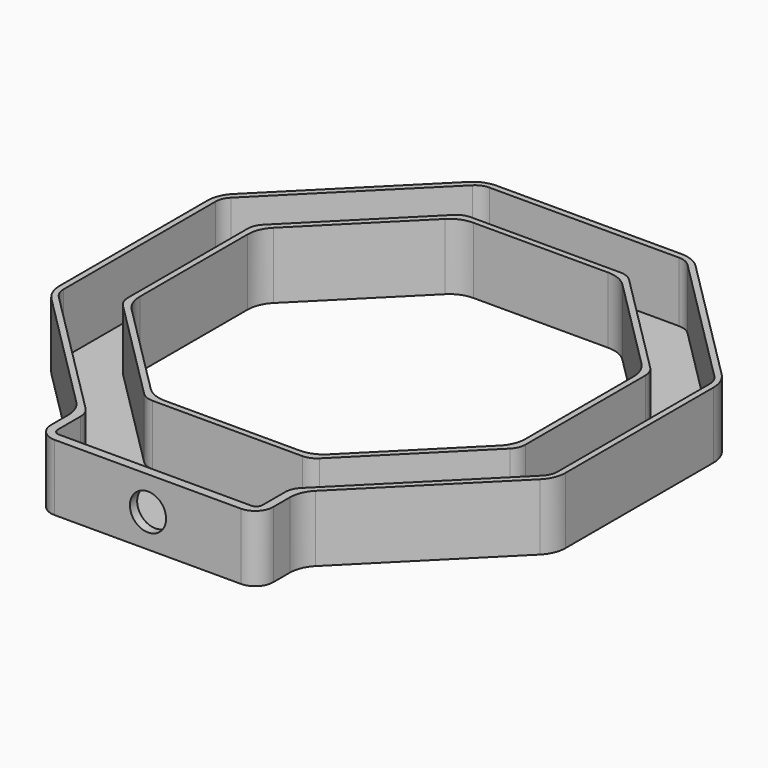
from build123d import *

# Parameters (mm, degrees)
F1_DEPTH = 1
F2_DEPTH = 11
F3_R     = 5
F4_R     = 3
F5_R     = 3
F6_DEPTH = 2
F7_R     = 1


with BuildPart() as f1:
    # F0 (on Top) → F1 (new body)
    with BuildSketch(Plane.XY):
        Polygon((41, -16.9827560573), (41, 16.9827560573), (16.9827560573, 41), (-16.9827560573, 41), (-41, 16.9827560573), (-41, -16.9827560573), (-16.9827560573, -41), (-16.9827560573, -48), (16.9827560573, -48), (16.9827560573, -41), align=None)
        Polygon((-33, -13.6690475583), (-33, 13.6690475583), (-13.6690475583, 33), (13.6690475583, 33), (33, 13.6690475583), (33, -13.6690475583), (13.6690475583, -33), (-13.6690475583, -33), align=None, mode=Mode.SUBTRACT)
    extrude(amount=F1_DEPTH)

    # F0 (on Top) → F2 (join)
    with BuildSketch(Plane.XY):
        Polygon((-17.3969696197, 42), (-42, 17.3969696197), (-42, -17.3969696197), (-18.4827560573, -40.9142135624), (-18.4827560573, -49.5), (18.3969696197, -49.5), (18.3969696197, -41), (42, -17.3969696197), (42, 17.3969696197), (17.3969696197, 42), align=None)
        Polygon((16.9827560573, 41), (41, 16.9827560573), (41, -16.9827560573), (16.9827560573, -41), (16.9827560573, -48), (-16.9827560573, -48), (-16.9827560573, -41), (-41, -16.9827560573), (-41, 16.9827560573), (-16.9827560573, 41), align=None, mode=Mode.SUBTRACT)
        Polygon((-13.6690475583, 33), (-33, 13.6690475583), (-33, -13.6690475583), (-13.6690475583, -33), (13.6690475583, -33), (33, -13.6690475583), (33, 13.6690475583), (13.6690475583, 33), align=None)
        Polygon((-32, 13.2548339959), (-13.2548339959, 32), (13.2548339959, 32), (32, 13.2548339959), (32, -13.2548339959), (13.2548339959, -32), (-13.2548339959, -32), (-32, -13.2548339959), align=None, mode=Mode.SUBTRACT)
    extrude(amount=F2_DEPTH)

    # F3
    f3_edges = [f1.edges().sort_by_distance(p)[0] for p in [
        (-42, 17.39697, 5.5),
        (-42, -17.39697, 5.5),
        (-17.39697, 42, 5.5),
        (17.39697, 42, 5.5),
        (42, 17.39697, 5.5),
        (42, -17.39697, 5.5),
        (-13.254834, 32, 5.5),
        (-32, 13.254834, 5.5),
        (-32, -13.254834, 5.5),
        (-13.254834, -32, 5.5),
        (13.254834, -32, 5.5),
        (32, -13.254834, 5.5),
        (32, 13.254834, 5.5),
        (13.254834, 32, 5.5),
        (18.39697, -41, 5.5),
        (-18.482756, -40.914214, 5.5),
    ]]
    fillet(f3_edges, radius=F3_R)

    # F4
    f4_edges = [f1.edges().sort_by_distance(p)[0] for p in [
        (-33, -13.669048, 6),
        (-13.669048, -33, 6),
        (13.669048, -33, 6),
        (33, -13.669048, 6),
        (33, 13.669048, 6),
        (13.669048, 33, 6),
        (-13.669048, 33, 6),
        (-33, 13.669048, 6),
        (41, -16.982756, 6),
        (41, 16.982756, 6),
        (16.982756, 41, 6),
        (-16.982756, 41, 6),
        (-41, 16.982756, 6),
        (-41, -16.982756, 6),
        (-16.982756, -41, 6),
        (16.982756, -41, 6),
        (18.39697, -49.5, 5.5),
        (-18.482756, -49.5, 5.5),
    ]]
    fillet(f4_edges, radius=F4_R)

    # F5 (on face) → F6 (cut)
    with BuildSketch(Plane.XZ.offset(49.5)):
        with Locations((0, 5.5)):
            Circle(F5_R)
    extrude(amount=-F6_DEPTH, mode=Mode.SUBTRACT)

    # F7
    f7_edges = [f1.edges().sort_by_distance(p)[0] for p in [
        (-16.982756, -48, 6),
        (16.982756, -48, 6),
    ]]
    fillet(f7_edges, radius=F7_R)


solid = f1.part
